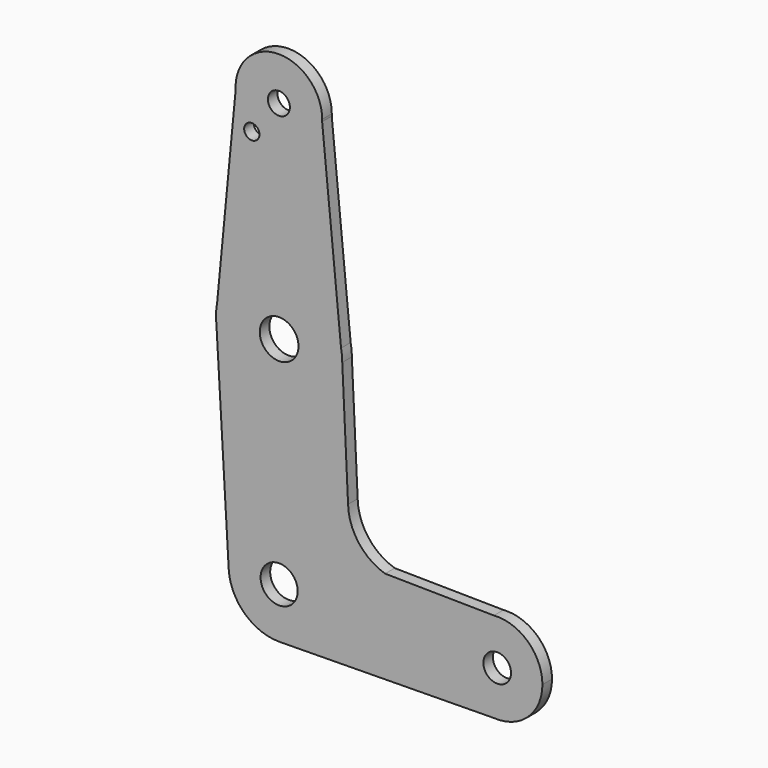
from build123d import *

# Parameters (mm, degrees)
F0_R     = 4.713782939
F0_R_2   = 4.9207223913
F0_R_3   = 3.5162893768
F0_R_4   = 2.7862776977
F1_DEPTH = 3.048


with BuildPart() as f1:
    # F0 (on Front) → F1 (new body)
    with BuildSketch(Plane.XZ):
        with BuildLine():
            ThreePointArc((0.1598490126, -67.6738487769), (9.1312197479, -63.8592138989), (12.8338176352, -54.8410266638))
            ThreePointArc((12.8338176352, -54.8410266638), (-0.3720233097, -42.0126022184), (-12.8122494086, -55.5847606105))
            ThreePointArc((-12.8122494086, -55.5847606105), (-8.7497041161, -64.2298259999), (0.1598490126, -67.6738487769))
        make_face()
        with Locations((0, -54.8410266638)):
            Circle(F0_R, mode=Mode.SUBTRACT)
        with BuildLine():
            ThreePointArc((-12.8122494086, -55.5847606105), (-0.3720233097, -42.0126022184), (12.8338176352, -54.8410266638))
            ThreePointArc((12.8338176352, -54.8410266638), (9.1312197479, -63.8592138989), (0.1598490126, -67.6738487769))
            Line((0.1598490126, -67.6738487769), (54.8546735279, -66.9925615556))
            ThreePointArc((54.8546735279, -66.9925615556), (43.9155816109, -55.6611646444), (54.5690320432, -44.0608076751))
            Line((54.5690320432, -44.0608076751), (26.9158054143, -43.6921007931))
            ThreePointArc((26.9158054143, -43.6921007931), (20.2107829868, -38.9764019222), (17.5153449808, -31.2349708175))
            Line((17.5153449808, -31.2349708175), (16.0388704389, 0))
            ThreePointArc((16.0388704389, 0), (0.9294703066, -16.0119158724), (-15.9311427714, -1.8558165193))
            Line((-15.9311427714, -1.8558165193), (-12.8122494086, -55.5847606105))
        make_face()
        with BuildLine():
            Line((-16.0388704389, 0), (-15.9311427714, -1.8558165193))
            ThreePointArc((-15.9311427714, -1.8558165193), (0.9294703066, -16.0119158724), (16.0388704389, 0))
            Line((16.0388704389, 0), (15.7343302143, 3.1106619335))
            ThreePointArc((15.7343302143, 3.1106619335), (-0.0351537941, 16.0388319141), (-15.7478148275, 3.041659599))
            Line((-15.7478148275, 3.041659599), (-16.0388704389, 0))
        make_face()
        Circle(F0_R_2, mode=Mode.SUBTRACT)
        with BuildLine():
            ThreePointArc((-16.0388704389, 0), (-16.0119158724, -0.9294703066), (-15.9311427714, -1.8558165193))
            Line((-15.9311427714, -1.8558165193), (-16.0388704389, 0))
        make_face()
        with BuildLine():
            ThreePointArc((54.5690320432, -44.0608076751), (43.9155816109, -55.6611646444), (54.8546735279, -66.9925615556))
            Line((54.8546735279, -66.9925615556), (56.2354153129, -66.9753628217))
            ThreePointArc((56.2354153129, -66.9753628217), (63.8145579026, -63.3408757088), (66.8897568202, -55.5180852484))
            ThreePointArc((66.8897568202, -55.5180852484), (63.2250141384, -47.1057510239), (54.5690320432, -44.0608076751))
        make_face()
        with Locations((55.4022236781, -55.5180852484)):
            Circle(F0_R_3, mode=Mode.SUBTRACT)
        with BuildLine():
            Line((56.2354153129, -66.9753628217), (54.8546735279, -66.9925615556))
            ThreePointArc((54.8546735279, -66.9925615556), (55.545303074, -67.0047273156), (56.2354153129, -66.9753628217))
        make_face()
        with BuildLine():
            ThreePointArc((-15.7478148275, 3.041659599), (-15.9659407282, 1.5277766922), (-16.0388704389, 0))
            Line((-16.0388704389, 0), (-15.7478148275, 3.041659599))
        make_face()
        with BuildLine():
            Line((15.7343302143, 3.1106619335), (16.0388704389, 0))
            ThreePointArc((16.0388704389, 0), (15.9625538168, 1.5627669702), (15.7343302143, 3.1106619335))
        make_face()
        with BuildLine():
            Line((-11.0510632254, 52.1247867843), (-15.7478148275, 3.041659599))
            ThreePointArc((-15.7478148275, 3.041659599), (-0.0351537941, 16.0388319141), (15.7343302143, 3.1106619335))
            Line((15.7343302143, 3.1106619335), (10.9306788188, 52.176546597))
            ThreePointArc((10.9306788188, 52.176546597), (5.3215487746, 43.1258668695), (-5.3261200924, 43.0603605161))
            ThreePointArc((-5.3261200924, 43.0603605161), (-8.1553652084, 42.6205897632), (-8.3439608764, 45.4775913235))
            ThreePointArc((-8.3439608764, 45.4775913235), (-10.2545898673, 48.5743164316), (-11.0510632254, 52.1247867843))
        make_face()
        with BuildLine():
            Line((-10.737719879, 55.3993630507), (-11.0510632254, 52.1247867843))
            ThreePointArc((-11.0510632254, 52.1247867843), (-10.2545898673, 48.5743164316), (-8.3439608764, 45.4775913235))
            ThreePointArc((-8.3439608764, 45.4775913235), (-6.2188588216, 45.9364956587), (-5.0011796108, 44.1354100772))
            ThreePointArc((-5.0011796108, 44.1354100772), (-5.0841899148, 43.5738680318), (-5.3261200924, 43.0603605161))
            ThreePointArc((-5.3261200924, 43.0603605161), (5.3215487746, 43.1258668695), (10.9306788188, 52.176546597))
            ThreePointArc((10.9306788188, 52.176546597), (10.9409517948, 52.4509292237), (10.9443768307, 52.7254827321))
            ThreePointArc((10.9443768307, 52.7254827321), (1.2855224003, 63.6486571068), (-10.737719879, 55.3993630507))
        make_face()
        with Locations((-0.0615457071, 52.7254827321)):
            Circle(F0_R_4, mode=Mode.SUBTRACT)
        with BuildLine():
            ThreePointArc((-10.737719879, 55.3993630507), (-11.0174236516, 53.7738478269), (-11.0510632254, 52.1247867843))
            Line((-11.0510632254, 52.1247867843), (-10.737719879, 55.3993630507))
        make_face()
    extrude(amount=F1_DEPTH)


solid = f1.part
